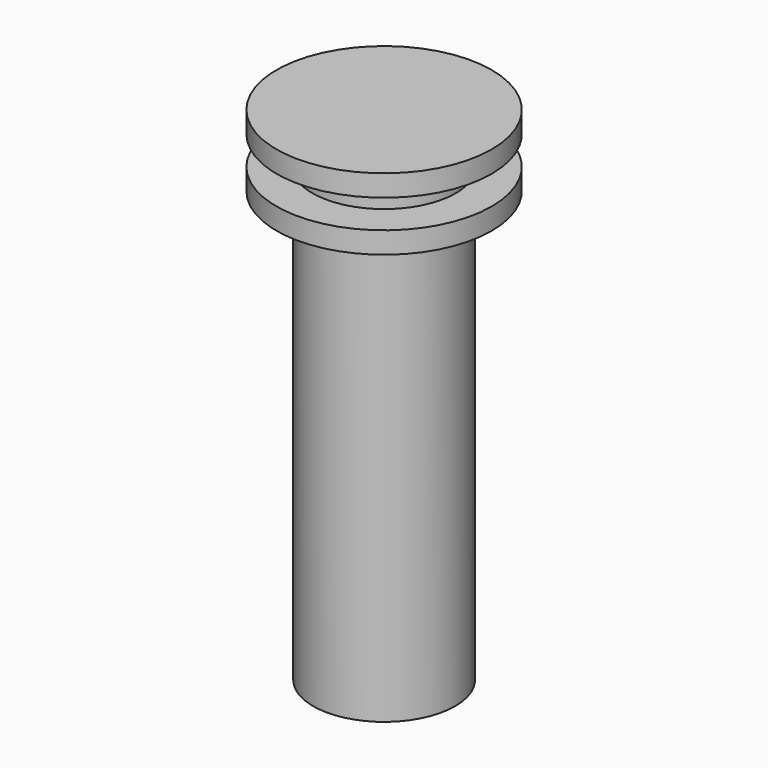
from build123d import *

# Parameters (mm, degrees)
F0_R          = 7.5
F1_DEPTH      = 2.5
F1_DEPTH_BACK = 2.5
F2_R          = 4.95
F3_DEPTH      = 30
F4_R          = 7.55
F4_R_2        = 5
F5_DEPTH      = 1
F5_DEPTH_BACK = 1


with BuildPart() as f1:
    # F0 (on Top) → F1 (new body, two sides)
    with BuildSketch(Plane.XY) as f1_sk:
        Circle(F0_R)
    extrude(amount=-F1_DEPTH)
    extrude(f1_sk.sketch, amount=F1_DEPTH_BACK)

    # F2 (on face) → F3 (join)
    with BuildSketch(Plane(origin=(0, 0, -2.5), x_dir=(1, 0, 0), z_dir=(0, 0, -1))):
        Circle(F2_R)
    extrude(amount=F3_DEPTH)

    # F4 (on Top) → F5 (cut, two sides)
    with BuildSketch(Plane.XY) as f5_sk:
        Circle(F4_R)
        Circle(F4_R_2, mode=Mode.SUBTRACT)
    extrude(amount=-F5_DEPTH, mode=Mode.SUBTRACT)
    extrude(f5_sk.sketch, amount=F5_DEPTH_BACK, mode=Mode.SUBTRACT)


solid = f1.part
